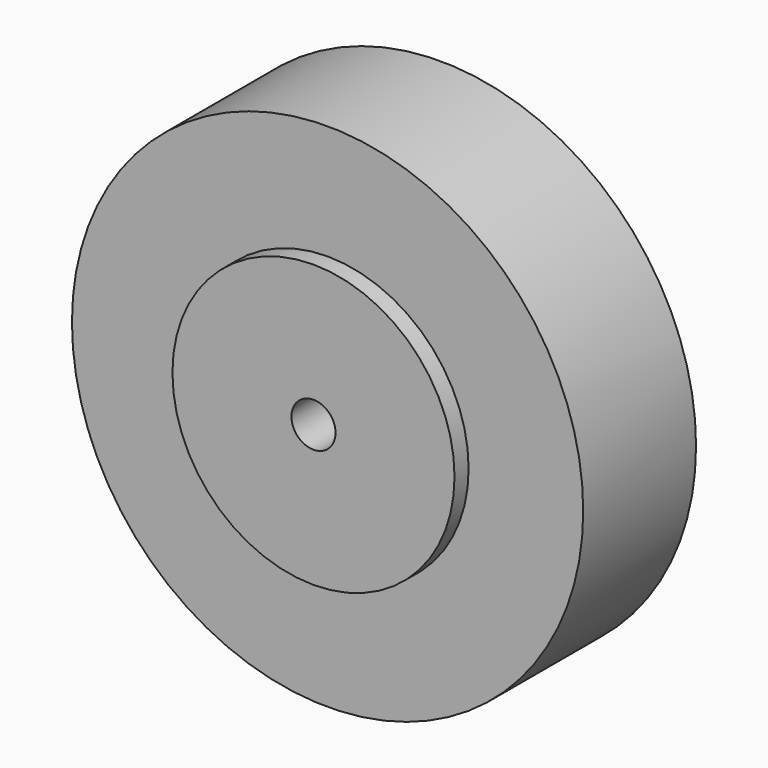
from build123d import *

# Parameters (mm, degrees)
F0_R     = 46.0375
F1_DEPTH = 31.75
F2_R     = 46.0375
F2_R_2   = 25.4
F3_DEPTH = 3.175
F4_R     = 46.0375
F4_R_2   = 25.4
F5_DEPTH = 3.175
F6_R     = 3.96875
F7_DEPTH = 31.751


with BuildPart() as f1:
    # F0 (on Front) → F1 (new body)
    with BuildSketch(Plane.XZ):
        Circle(F0_R)
    extrude(amount=F1_DEPTH)

    # F2 (on face) → F3 (cut)
    with BuildSketch(Plane.XZ.offset(31.75)):
        Circle(F2_R)
        Circle(F2_R_2, mode=Mode.SUBTRACT)
    extrude(amount=-F3_DEPTH, mode=Mode.SUBTRACT)

    # F4 (on face) → F5 (cut)
    with BuildSketch(Plane(origin=(0, 0, 0), x_dir=(-1, 0, 0), z_dir=(0, 1, 0))):
        Circle(F4_R)
        Circle(F4_R_2, mode=Mode.SUBTRACT)
    extrude(amount=-F5_DEPTH, mode=Mode.SUBTRACT)

    # F6 (on Front) → F7 (cut, through all)
    with BuildSketch(Plane.XZ):
        Circle(F6_R)
    extrude(amount=F7_DEPTH, mode=Mode.SUBTRACT)


solid = f1.part
